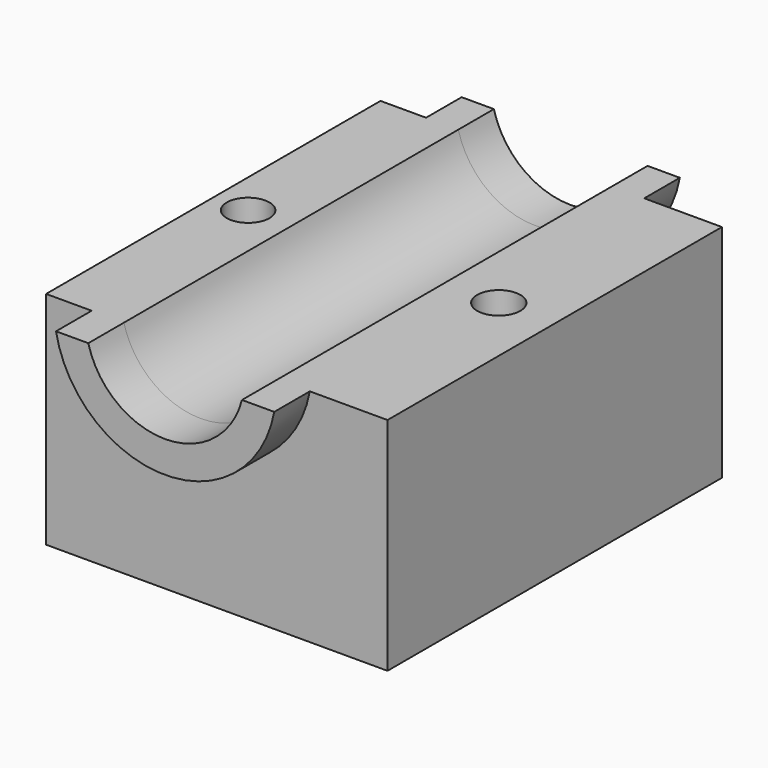
from build123d import *

# Parameters (mm, degrees)
F0_W     = 87.819647
F0_H     = 93.559742
F0_R     = 4.613034
F0_R_2   = 4.621613
F1_DEPTH = 109.474
F2_R     = 28.523138
F2_R_2   = 20.412925
F3_DEPTH = 25.4
F5_W     = 138.989549
F5_H     = 60.892661
F6_DEPTH = 76.2
F7_DEPTH = 118.960742
F8_R     = 5.562192
F8_R_2   = 5.488567
F9_DEPTH = 56.790789


with BuildPart() as f1:
    # F0 (on Top) → F1 (new body)
    with BuildSketch(Plane.XY):
        with Locations((4.134112, 6.978657)):
            Rectangle(F0_W, F0_H)
        with Locations((-32.668188, 13.385462)):
            Circle(F0_R, mode=Mode.SUBTRACT)
        with Locations((36.83091, 13.385462)):
            Circle(F0_R_2, mode=Mode.SUBTRACT)
    extrude(amount=F1_DEPTH)

    # F2 (on face) → F3 (join)
    with BuildSketch(Plane.XZ.offset(39.801214)):
        with Locations((0, 61.909173)):
            Circle(F2_R)
        with Locations((0, 61.909173)):
            Circle(F2_R_2, mode=Mode.SUBTRACT)
    extrude(amount=F3_DEPTH)

    # F4: F1 across plane


with BuildPart() as f1_1:
    add(f1.part)
    add(f1.part.mirror(Plane.XZ))

    # F5 (on Front) → F6 (cut, symmetric)
    with BuildSketch(Plane.XZ):
        with Locations((8.737327, 87.23612)):
            Rectangle(F5_W, F5_H)
    extrude(amount=F6_DEPTH, both=True, mode=Mode.SUBTRACT)

    # F4_face (on face) → F7 (cut, through all)
    with BuildSketch(Plane(origin=(0, 53.758528, 50.420232), x_dir=(-1, 0, 0), z_dir=(0, 1, 0))):
        with BuildLine():
            Line((19.760552, 6.369557), (-19.760552, 6.369557))
            ThreePointArc((-19.760552, 6.369557), (0, -8.923984), (19.760552, 6.369557))
        make_face()
    extrude(amount=-F7_DEPTH, mode=Mode.SUBTRACT)

    # F8 (on Top) → F9 (cut, through all)
    with BuildSketch(Plane.XY):
        with Locations((33.658396, 0)):
            Circle(F8_R)
        with Locations((-30.80599, 0)):
            Circle(F8_R_2)
    extrude(amount=F9_DEPTH, mode=Mode.SUBTRACT)


solid = f1_1.part
